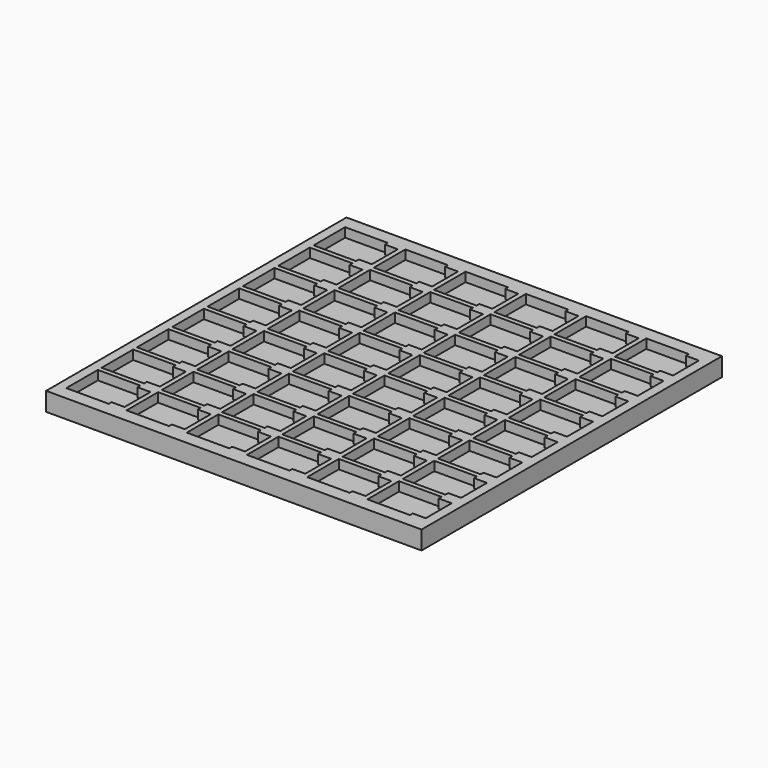
from build123d import *

# Parameters (mm, degrees)
F0_W     = 101.5
F0_H     = 101.5
F1_DEPTH = 5
F2_DEPTH = 2.5


with BuildPart() as f1:
    # F0 (on Top) → F1 (new body)
    with BuildSketch(Plane.XY):
        Rectangle(F0_W, F0_H)
        Polygon((-36.6973, -46.1647), (-36.6973, -47.1182), (-48.1973, -47.1182), (-48.1973, -36.4482), (-36.6973, -36.4482), (-36.6973, -37.4017), (-33.1973, -37.4017), (-33.1973, -46.1647), align=None, mode=Mode.SUBTRACT)
        Polygon((-36.6973, -34.2267), (-36.6973, -35.1802), (-48.1973, -35.1802), (-48.1973, -24.5102), (-36.6973, -24.5102), (-36.6973, -25.4637), (-33.1973, -25.4637), (-33.1973, -34.2267), align=None, mode=Mode.SUBTRACT)
        Polygon((-20.4159, -46.1647), (-20.4159, -47.1182), (-31.9159, -47.1182), (-31.9159, -36.4482), (-20.4159, -36.4482), (-20.4159, -37.4017), (-16.9159, -37.4017), (-16.9159, -46.1647), align=None, mode=Mode.SUBTRACT)
        Polygon((-4.1345, -46.1647), (-4.1345, -47.1182), (-15.6345, -47.1182), (-15.6345, -36.4482), (-4.1345, -36.4482), (-4.1345, -37.4017), (-0.6345, -37.4017), (-0.6345, -46.1647), align=None, mode=Mode.SUBTRACT)
        Polygon((-20.4159, -34.2267), (-20.4159, -35.1802), (-31.9159, -35.1802), (-31.9159, -24.5102), (-20.4159, -24.5102), (-20.4159, -25.4637), (-16.9159, -25.4637), (-16.9159, -34.2267), align=None, mode=Mode.SUBTRACT)
        Polygon((-4.1345, -34.2267), (-4.1345, -35.1802), (-15.6345, -35.1802), (-15.6345, -24.5102), (-4.1345, -24.5102), (-4.1345, -25.4637), (-0.6345, -25.4637), (-0.6345, -34.2267), align=None, mode=Mode.SUBTRACT)
        Polygon((-36.6973, -22.2887), (-36.6973, -23.2422), (-48.1973, -23.2422), (-48.1973, -12.5722), (-36.6973, -12.5722), (-36.6973, -13.5257), (-33.1973, -13.5257), (-33.1973, -22.2887), align=None, mode=Mode.SUBTRACT)
        Polygon((-36.6973, -10.3507), (-36.6973, -11.3042), (-48.1973, -11.3042), (-48.1973, -0.6342), (-36.6973, -0.6342), (-36.6973, -1.5877), (-33.1973, -1.5877), (-33.1973, -10.3507), align=None, mode=Mode.SUBTRACT)
        Polygon((-20.4159, -22.2887), (-20.4159, -23.2422), (-31.9159, -23.2422), (-31.9159, -12.5722), (-20.4159, -12.5722), (-20.4159, -13.5257), (-16.9159, -13.5257), (-16.9159, -22.2887), align=None, mode=Mode.SUBTRACT)
        Polygon((-4.1345, -22.2887), (-4.1345, -23.2422), (-15.6345, -23.2422), (-15.6345, -12.5722), (-4.1345, -12.5722), (-4.1345, -13.5257), (-0.6345, -13.5257), (-0.6345, -22.2887), align=None, mode=Mode.SUBTRACT)
        Polygon((-20.4159, -10.3507), (-20.4159, -11.3042), (-31.9159, -11.3042), (-31.9159, -0.6342), (-20.4159, -0.6342), (-20.4159, -1.5877), (-16.9159, -1.5877), (-16.9159, -10.3507), align=None, mode=Mode.SUBTRACT)
        Polygon((-4.1345, -10.3507), (-4.1345, -11.3042), (-15.6345, -11.3042), (-15.6345, -0.6342), (-4.1345, -0.6342), (-4.1345, -1.5877), (-0.6345, -1.5877), (-0.6345, -10.3507), align=None, mode=Mode.SUBTRACT)
        Polygon((12.1469, -46.1647), (12.1469, -47.1182), (0.6469, -47.1182), (0.6469, -36.4482), (12.1469, -36.4482), (12.1469, -37.4017), (15.6469, -37.4017), (15.6469, -46.1647), align=None, mode=Mode.SUBTRACT)
        Polygon((28.4283, -46.1647), (28.4283, -47.1182), (16.9283, -47.1182), (16.9283, -36.4482), (28.4283, -36.4482), (28.4283, -37.4017), (31.9283, -37.4017), (31.9283, -46.1647), align=None, mode=Mode.SUBTRACT)
        Polygon((12.1469, -34.2267), (12.1469, -35.1802), (0.6469, -35.1802), (0.6469, -24.5102), (12.1469, -24.5102), (12.1469, -25.4637), (15.6469, -25.4637), (15.6469, -34.2267), align=None, mode=Mode.SUBTRACT)
        Polygon((28.4283, -34.2267), (28.4283, -35.1802), (16.9283, -35.1802), (16.9283, -24.5102), (28.4283, -24.5102), (28.4283, -25.4637), (31.9283, -25.4637), (31.9283, -34.2267), align=None, mode=Mode.SUBTRACT)
        Polygon((44.7097, -46.1647), (44.7097, -47.1182), (33.2097, -47.1182), (33.2097, -36.4482), (44.7097, -36.4482), (44.7097, -37.4017), (48.2097, -37.4017), (48.2097, -46.1647), align=None, mode=Mode.SUBTRACT)
        Polygon((44.7097, -34.2267), (44.7097, -35.1802), (33.2097, -35.1802), (33.2097, -24.5102), (44.7097, -24.5102), (44.7097, -25.4637), (48.2097, -25.4637), (48.2097, -34.2267), align=None, mode=Mode.SUBTRACT)
        Polygon((12.1469, -22.2887), (12.1469, -23.2422), (0.6469, -23.2422), (0.6469, -12.5722), (12.1469, -12.5722), (12.1469, -13.5257), (15.6469, -13.5257), (15.6469, -22.2887), align=None, mode=Mode.SUBTRACT)
        Polygon((28.4283, -22.2887), (28.4283, -23.2422), (16.9283, -23.2422), (16.9283, -12.5722), (28.4283, -12.5722), (28.4283, -13.5257), (31.9283, -13.5257), (31.9283, -22.2887), align=None, mode=Mode.SUBTRACT)
        Polygon((12.1469, -10.3507), (12.1469, -11.3042), (0.6469, -11.3042), (0.6469, -0.6342), (12.1469, -0.6342), (12.1469, -1.5877), (15.6469, -1.5877), (15.6469, -10.3507), align=None, mode=Mode.SUBTRACT)
        Polygon((28.4283, -10.3507), (28.4283, -11.3042), (16.9283, -11.3042), (16.9283, -0.6342), (28.4283, -0.6342), (28.4283, -1.5877), (31.9283, -1.5877), (31.9283, -10.3507), align=None, mode=Mode.SUBTRACT)
        Polygon((44.7097, -22.2887), (44.7097, -23.2422), (33.2097, -23.2422), (33.2097, -12.5722), (44.7097, -12.5722), (44.7097, -13.5257), (48.2097, -13.5257), (48.2097, -22.2887), align=None, mode=Mode.SUBTRACT)
        Polygon((44.7097, -10.3507), (44.7097, -11.3042), (33.2097, -11.3042), (33.2097, -0.6342), (44.7097, -0.6342), (44.7097, -1.5877), (48.2097, -1.5877), (48.2097, -10.3507), align=None, mode=Mode.SUBTRACT)
        Polygon((-36.6973, 1.5873), (-36.6973, 0.6338), (-48.1973, 0.6338), (-48.1973, 11.3038), (-36.6973, 11.3038), (-36.6973, 10.3503), (-33.1973, 10.3503), (-33.1973, 1.5873), align=None, mode=Mode.SUBTRACT)
        Polygon((-36.6973, 13.5253), (-36.6973, 12.5718), (-48.1973, 12.5718), (-48.1973, 23.2418), (-36.6973, 23.2418), (-36.6973, 22.2883), (-33.1973, 22.2883), (-33.1973, 13.5253), align=None, mode=Mode.SUBTRACT)
        Polygon((-20.4159, 1.5873), (-20.4159, 0.6338), (-31.9159, 0.6338), (-31.9159, 11.3038), (-20.4159, 11.3038), (-20.4159, 10.3503), (-16.9159, 10.3503), (-16.9159, 1.5873), align=None, mode=Mode.SUBTRACT)
        Polygon((-4.1345, 1.5873), (-4.1345, 0.6338), (-15.6345, 0.6338), (-15.6345, 11.3038), (-4.1345, 11.3038), (-4.1345, 10.3503), (-0.6345, 10.3503), (-0.6345, 1.5873), align=None, mode=Mode.SUBTRACT)
        Polygon((-20.4159, 13.5253), (-20.4159, 12.5718), (-31.9159, 12.5718), (-31.9159, 23.2418), (-20.4159, 23.2418), (-20.4159, 22.2883), (-16.9159, 22.2883), (-16.9159, 13.5253), align=None, mode=Mode.SUBTRACT)
        Polygon((-4.1345, 13.5253), (-4.1345, 12.5718), (-15.6345, 12.5718), (-15.6345, 23.2418), (-4.1345, 23.2418), (-4.1345, 22.2883), (-0.6345, 22.2883), (-0.6345, 13.5253), align=None, mode=Mode.SUBTRACT)
        Polygon((-36.6973, 25.4633), (-36.6973, 24.5098), (-48.1973, 24.5098), (-48.1973, 35.1798), (-36.6973, 35.1798), (-36.6973, 34.2263), (-33.1973, 34.2263), (-33.1973, 25.4633), align=None, mode=Mode.SUBTRACT)
        Polygon((-48.1973, 36.4478), (-48.1973, 47.1178), (-36.6973, 47.1178), (-36.6973, 46.1643), (-33.1973, 46.1643), (-33.1973, 37.4013), (-36.6973, 37.4013), (-36.6973, 36.4478), align=None, mode=Mode.SUBTRACT)
        Polygon((-20.4159, 25.4633), (-20.4159, 24.5098), (-31.9159, 24.5098), (-31.9159, 35.1798), (-20.4159, 35.1798), (-20.4159, 34.2263), (-16.9159, 34.2263), (-16.9159, 25.4633), align=None, mode=Mode.SUBTRACT)
        Polygon((-4.1345, 25.4633), (-4.1345, 24.5098), (-15.6345, 24.5098), (-15.6345, 35.1798), (-4.1345, 35.1798), (-4.1345, 34.2263), (-0.6345, 34.2263), (-0.6345, 25.4633), align=None, mode=Mode.SUBTRACT)
        Polygon((-20.4159, 37.4013), (-20.4159, 36.4478), (-31.9159, 36.4478), (-31.9159, 47.1178), (-20.4159, 47.1178), (-20.4159, 46.1643), (-16.9159, 46.1643), (-16.9159, 37.4013), align=None, mode=Mode.SUBTRACT)
        Polygon((-4.1345, 37.4013), (-4.1345, 36.4478), (-15.6345, 36.4478), (-15.6345, 47.1178), (-4.1345, 47.1178), (-4.1345, 46.1643), (-0.6345, 46.1643), (-0.6345, 37.4013), align=None, mode=Mode.SUBTRACT)
        Polygon((12.1469, 1.5873), (12.1469, 0.6338), (0.6469, 0.6338), (0.6469, 11.3038), (12.1469, 11.3038), (12.1469, 10.3503), (15.6469, 10.3503), (15.6469, 1.5873), align=None, mode=Mode.SUBTRACT)
        Polygon((28.4283, 1.5873), (28.4283, 0.6338), (16.9283, 0.6338), (16.9283, 11.3038), (28.4283, 11.3038), (28.4283, 10.3503), (31.9283, 10.3503), (31.9283, 1.5873), align=None, mode=Mode.SUBTRACT)
        Polygon((12.1469, 13.5253), (12.1469, 12.5718), (0.6469, 12.5718), (0.6469, 23.2418), (12.1469, 23.2418), (12.1469, 22.2883), (15.6469, 22.2883), (15.6469, 13.5253), align=None, mode=Mode.SUBTRACT)
        Polygon((28.4283, 13.5253), (28.4283, 12.5718), (16.9283, 12.5718), (16.9283, 23.2418), (28.4283, 23.2418), (28.4283, 22.2883), (31.9283, 22.2883), (31.9283, 13.5253), align=None, mode=Mode.SUBTRACT)
        Polygon((44.7097, 1.5873), (44.7097, 0.6338), (33.2097, 0.6338), (33.2097, 11.3038), (44.7097, 11.3038), (44.7097, 10.3503), (48.2097, 10.3503), (48.2097, 1.5873), align=None, mode=Mode.SUBTRACT)
        Polygon((44.7097, 13.5253), (44.7097, 12.5718), (33.2097, 12.5718), (33.2097, 23.2418), (44.7097, 23.2418), (44.7097, 22.2883), (48.2097, 22.2883), (48.2097, 13.5253), align=None, mode=Mode.SUBTRACT)
        Polygon((12.1469, 25.4633), (12.1469, 24.5098), (0.6469, 24.5098), (0.6469, 35.1798), (12.1469, 35.1798), (12.1469, 34.2263), (15.6469, 34.2263), (15.6469, 25.4633), align=None, mode=Mode.SUBTRACT)
        Polygon((28.4283, 25.4633), (28.4283, 24.5098), (16.9283, 24.5098), (16.9283, 35.1798), (28.4283, 35.1798), (28.4283, 34.2263), (31.9283, 34.2263), (31.9283, 25.4633), align=None, mode=Mode.SUBTRACT)
        Polygon((12.1469, 37.4013), (12.1469, 36.4478), (0.6469, 36.4478), (0.6469, 47.1178), (12.1469, 47.1178), (12.1469, 46.1643), (15.6469, 46.1643), (15.6469, 37.4013), align=None, mode=Mode.SUBTRACT)
        Polygon((28.4283, 37.4013), (28.4283, 36.4478), (16.9283, 36.4478), (16.9283, 47.1178), (28.4283, 47.1178), (28.4283, 46.1643), (31.9283, 46.1643), (31.9283, 37.4013), align=None, mode=Mode.SUBTRACT)
        Polygon((44.7097, 25.4633), (44.7097, 24.5098), (33.2097, 24.5098), (33.2097, 35.1798), (44.7097, 35.1798), (44.7097, 34.2263), (48.2097, 34.2263), (48.2097, 25.4633), align=None, mode=Mode.SUBTRACT)
        Polygon((44.7097, 37.4013), (44.7097, 36.4478), (33.2097, 36.4478), (33.2097, 47.1178), (44.7097, 47.1178), (44.7097, 46.1643), (48.2097, 46.1643), (48.2097, 37.4013), align=None, mode=Mode.SUBTRACT)
    extrude(amount=F1_DEPTH)

    # F0 (on Top) → F2 (join)
    with BuildSketch(Plane.XY):
        Polygon((-15.6345, -23.2422), (-4.1345, -23.2422), (-4.1345, -22.2887), (-0.6345, -22.2887), (-0.6345, -13.5257), (-4.1345, -13.5257), (-4.1345, -12.5722), (-15.6345, -12.5722), align=None)
        Polygon((16.9283, -11.3042), (28.4283, -11.3042), (28.4283, -10.3507), (31.9283, -10.3507), (31.9283, -1.5877), (28.4283, -1.5877), (28.4283, -0.6342), (16.9283, -0.6342), align=None)
        Polygon((-31.9159, 12.5718), (-20.4159, 12.5718), (-20.4159, 13.5253), (-16.9159, 13.5253), (-16.9159, 22.2883), (-20.4159, 22.2883), (-20.4159, 23.2418), (-31.9159, 23.2418), align=None)
        Polygon((0.6469, -35.1802), (12.1469, -35.1802), (12.1469, -34.2267), (15.6469, -34.2267), (15.6469, -25.4637), (12.1469, -25.4637), (12.1469, -24.5102), (0.6469, -24.5102), align=None)
        Polygon((-15.6345, 24.5098), (-4.1345, 24.5098), (-4.1345, 25.4633), (-0.6345, 25.4633), (-0.6345, 34.2263), (-4.1345, 34.2263), (-4.1345, 35.1798), (-15.6345, 35.1798), align=None)
        Polygon((33.2097, 36.4478), (44.7097, 36.4478), (44.7097, 37.4013), (48.2097, 37.4013), (48.2097, 46.1643), (44.7097, 46.1643), (44.7097, 47.1178), (33.2097, 47.1178), align=None)
        Polygon((-48.1973, -47.1182), (-36.6973, -47.1182), (-36.6973, -46.1647), (-33.1973, -46.1647), (-33.1973, -37.4017), (-36.6973, -37.4017), (-36.6973, -36.4482), (-48.1973, -36.4482), align=None)
        Polygon((-48.1973, 12.5718), (-36.6973, 12.5718), (-36.6973, 13.5253), (-33.1973, 13.5253), (-33.1973, 22.2883), (-36.6973, 22.2883), (-36.6973, 23.2418), (-48.1973, 23.2418), align=None)
        Polygon((16.9283, -23.2422), (28.4283, -23.2422), (28.4283, -22.2887), (31.9283, -22.2887), (31.9283, -13.5257), (28.4283, -13.5257), (28.4283, -12.5722), (16.9283, -12.5722), align=None)
        Polygon((33.2097, 0.6338), (44.7097, 0.6338), (44.7097, 1.5873), (48.2097, 1.5873), (48.2097, 10.3503), (44.7097, 10.3503), (44.7097, 11.3038), (33.2097, 11.3038), align=None)
        Polygon((0.6469, 24.5098), (12.1469, 24.5098), (12.1469, 25.4633), (15.6469, 25.4633), (15.6469, 34.2263), (12.1469, 34.2263), (12.1469, 35.1798), (0.6469, 35.1798), align=None)
        Polygon((16.9283, 24.5098), (28.4283, 24.5098), (28.4283, 25.4633), (31.9283, 25.4633), (31.9283, 34.2263), (28.4283, 34.2263), (28.4283, 35.1798), (16.9283, 35.1798), align=None)
        Polygon((16.9283, 0.6338), (28.4283, 0.6338), (28.4283, 1.5873), (31.9283, 1.5873), (31.9283, 10.3503), (28.4283, 10.3503), (28.4283, 11.3038), (16.9283, 11.3038), align=None)
        Polygon((-31.9159, -23.2422), (-20.4159, -23.2422), (-20.4159, -22.2887), (-16.9159, -22.2887), (-16.9159, -13.5257), (-20.4159, -13.5257), (-20.4159, -12.5722), (-31.9159, -12.5722), align=None)
        Polygon((-48.1973, -35.1802), (-36.6973, -35.1802), (-36.6973, -34.2267), (-33.1973, -34.2267), (-33.1973, -25.4637), (-36.6973, -25.4637), (-36.6973, -24.5102), (-48.1973, -24.5102), align=None)
        Polygon((-15.6345, -11.3042), (-4.1345, -11.3042), (-4.1345, -10.3507), (-0.6345, -10.3507), (-0.6345, -1.5877), (-4.1345, -1.5877), (-4.1345, -0.6342), (-15.6345, -0.6342), align=None)
        Polygon((-48.1973, -11.3042), (-36.6973, -11.3042), (-36.6973, -10.3507), (-33.1973, -10.3507), (-33.1973, -1.5877), (-36.6973, -1.5877), (-36.6973, -0.6342), (-48.1973, -0.6342), align=None)
        Polygon((-48.1973, 0.6338), (-36.6973, 0.6338), (-36.6973, 1.5873), (-33.1973, 1.5873), (-33.1973, 10.3503), (-36.6973, 10.3503), (-36.6973, 11.3038), (-48.1973, 11.3038), align=None)
        Polygon((33.2097, -11.3042), (44.7097, -11.3042), (44.7097, -10.3507), (48.2097, -10.3507), (48.2097, -1.5877), (44.7097, -1.5877), (44.7097, -0.6342), (33.2097, -0.6342), align=None)
        Polygon((-31.9159, -11.3042), (-20.4159, -11.3042), (-20.4159, -10.3507), (-16.9159, -10.3507), (-16.9159, -1.5877), (-20.4159, -1.5877), (-20.4159, -0.6342), (-31.9159, -0.6342), align=None)
        Polygon((16.9283, -35.1802), (28.4283, -35.1802), (28.4283, -34.2267), (31.9283, -34.2267), (31.9283, -25.4637), (28.4283, -25.4637), (28.4283, -24.5102), (16.9283, -24.5102), align=None)
        Polygon((0.6469, 12.5718), (12.1469, 12.5718), (12.1469, 13.5253), (15.6469, 13.5253), (15.6469, 22.2883), (12.1469, 22.2883), (12.1469, 23.2418), (0.6469, 23.2418), align=None)
        Polygon((-31.9159, -35.1802), (-20.4159, -35.1802), (-20.4159, -34.2267), (-16.9159, -34.2267), (-16.9159, -25.4637), (-20.4159, -25.4637), (-20.4159, -24.5102), (-31.9159, -24.5102), align=None)
        Polygon((0.6469, 36.4478), (12.1469, 36.4478), (12.1469, 37.4013), (15.6469, 37.4013), (15.6469, 46.1643), (12.1469, 46.1643), (12.1469, 47.1178), (0.6469, 47.1178), align=None)
        Polygon((33.2097, 12.5718), (44.7097, 12.5718), (44.7097, 13.5253), (48.2097, 13.5253), (48.2097, 22.2883), (44.7097, 22.2883), (44.7097, 23.2418), (33.2097, 23.2418), align=None)
        Polygon((-15.6345, -47.1182), (-4.1345, -47.1182), (-4.1345, -46.1647), (-0.6345, -46.1647), (-0.6345, -37.4017), (-4.1345, -37.4017), (-4.1345, -36.4482), (-15.6345, -36.4482), align=None)
        Polygon((0.6469, 0.6338), (12.1469, 0.6338), (12.1469, 1.5873), (15.6469, 1.5873), (15.6469, 10.3503), (12.1469, 10.3503), (12.1469, 11.3038), (0.6469, 11.3038), align=None)
        Polygon((33.2097, 24.5098), (44.7097, 24.5098), (44.7097, 25.4633), (48.2097, 25.4633), (48.2097, 34.2263), (44.7097, 34.2263), (44.7097, 35.1798), (33.2097, 35.1798), align=None)
        Polygon((-31.9159, -47.1182), (-20.4159, -47.1182), (-20.4159, -46.1647), (-16.9159, -46.1647), (-16.9159, -37.4017), (-20.4159, -37.4017), (-20.4159, -36.4482), (-31.9159, -36.4482), align=None)
        Polygon((-31.9159, 36.4478), (-20.4159, 36.4478), (-20.4159, 37.4013), (-16.9159, 37.4013), (-16.9159, 46.1643), (-20.4159, 46.1643), (-20.4159, 47.1178), (-31.9159, 47.1178), align=None)
        Polygon((33.2097, -35.1802), (44.7097, -35.1802), (44.7097, -34.2267), (48.2097, -34.2267), (48.2097, -25.4637), (44.7097, -25.4637), (44.7097, -24.5102), (33.2097, -24.5102), align=None)
        Polygon((-48.1973, -23.2422), (-36.6973, -23.2422), (-36.6973, -22.2887), (-33.1973, -22.2887), (-33.1973, -13.5257), (-36.6973, -13.5257), (-36.6973, -12.5722), (-48.1973, -12.5722), align=None)
        Polygon((16.9283, -47.1182), (28.4283, -47.1182), (28.4283, -46.1647), (31.9283, -46.1647), (31.9283, -37.4017), (28.4283, -37.4017), (28.4283, -36.4482), (16.9283, -36.4482), align=None)
        Polygon((16.9283, 36.4478), (28.4283, 36.4478), (28.4283, 37.4013), (31.9283, 37.4013), (31.9283, 46.1643), (28.4283, 46.1643), (28.4283, 47.1178), (16.9283, 47.1178), align=None)
        Polygon((33.2097, -23.2422), (44.7097, -23.2422), (44.7097, -22.2887), (48.2097, -22.2887), (48.2097, -13.5257), (44.7097, -13.5257), (44.7097, -12.5722), (33.2097, -12.5722), align=None)
        Polygon((33.2097, -47.1182), (44.7097, -47.1182), (44.7097, -46.1647), (48.2097, -46.1647), (48.2097, -37.4017), (44.7097, -37.4017), (44.7097, -36.4482), (33.2097, -36.4482), align=None)
        Polygon((-31.9159, 0.6338), (-20.4159, 0.6338), (-20.4159, 1.5873), (-16.9159, 1.5873), (-16.9159, 10.3503), (-20.4159, 10.3503), (-20.4159, 11.3038), (-31.9159, 11.3038), align=None)
        Polygon((-15.6345, 0.6338), (-4.1345, 0.6338), (-4.1345, 1.5873), (-0.6345, 1.5873), (-0.6345, 10.3503), (-4.1345, 10.3503), (-4.1345, 11.3038), (-15.6345, 11.3038), align=None)
        Polygon((-31.9159, 24.5098), (-20.4159, 24.5098), (-20.4159, 25.4633), (-16.9159, 25.4633), (-16.9159, 34.2263), (-20.4159, 34.2263), (-20.4159, 35.1798), (-31.9159, 35.1798), align=None)
        Polygon((16.9283, 12.5718), (28.4283, 12.5718), (28.4283, 13.5253), (31.9283, 13.5253), (31.9283, 22.2883), (28.4283, 22.2883), (28.4283, 23.2418), (16.9283, 23.2418), align=None)
        Polygon((0.6469, -11.3042), (12.1469, -11.3042), (12.1469, -10.3507), (15.6469, -10.3507), (15.6469, -1.5877), (12.1469, -1.5877), (12.1469, -0.6342), (0.6469, -0.6342), align=None)
        Polygon((-48.1973, 24.5098), (-36.6973, 24.5098), (-36.6973, 25.4633), (-33.1973, 25.4633), (-33.1973, 34.2263), (-36.6973, 34.2263), (-36.6973, 35.1798), (-48.1973, 35.1798), align=None)
        Polygon((-15.6345, 12.5718), (-4.1345, 12.5718), (-4.1345, 13.5253), (-0.6345, 13.5253), (-0.6345, 22.2883), (-4.1345, 22.2883), (-4.1345, 23.2418), (-15.6345, 23.2418), align=None)
        Polygon((0.6469, -47.1182), (12.1469, -47.1182), (12.1469, -46.1647), (15.6469, -46.1647), (15.6469, -37.4017), (12.1469, -37.4017), (12.1469, -36.4482), (0.6469, -36.4482), align=None)
        Polygon((-15.6345, -35.1802), (-4.1345, -35.1802), (-4.1345, -34.2267), (-0.6345, -34.2267), (-0.6345, -25.4637), (-4.1345, -25.4637), (-4.1345, -24.5102), (-15.6345, -24.5102), align=None)
        Polygon((-36.6973, 47.1178), (-48.1973, 47.1178), (-48.1973, 36.4478), (-36.6973, 36.4478), (-36.6973, 37.4013), (-33.1973, 37.4013), (-33.1973, 46.1643), (-36.6973, 46.1643), align=None)
        Polygon((-15.6345, 36.4478), (-4.1345, 36.4478), (-4.1345, 37.4013), (-0.6345, 37.4013), (-0.6345, 46.1643), (-4.1345, 46.1643), (-4.1345, 47.1178), (-15.6345, 47.1178), align=None)
        Polygon((0.6469, -23.2422), (12.1469, -23.2422), (12.1469, -22.2887), (15.6469, -22.2887), (15.6469, -13.5257), (12.1469, -13.5257), (12.1469, -12.5722), (0.6469, -12.5722), align=None)
    extrude(amount=F2_DEPTH)


solid = f1.part
